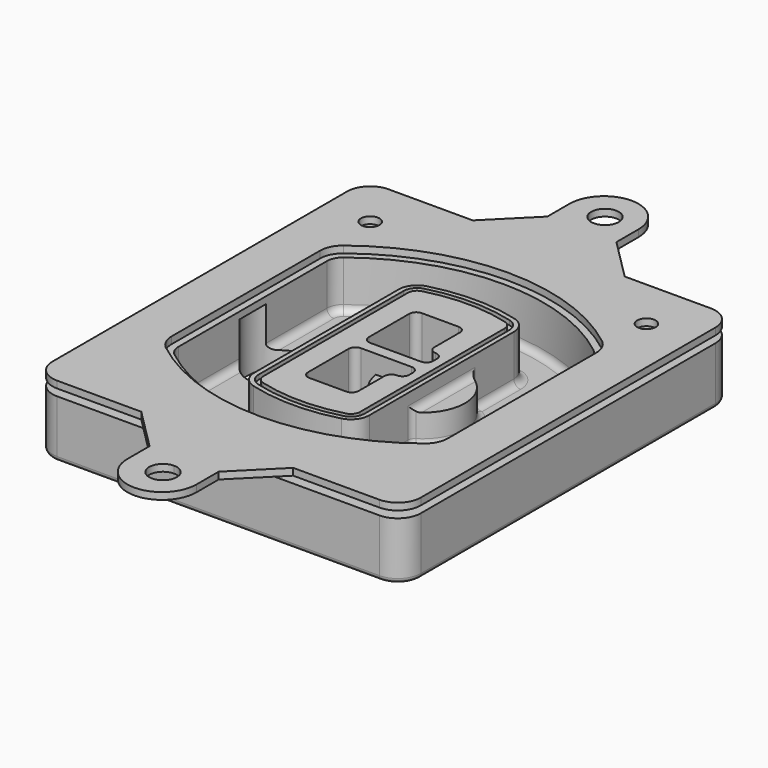
from build123d import *

# Parameters (mm, degrees)
F0_R      = 4
F1_DEPTH  = 25
F2_DEPTH  = 3
F3_DEPTH  = 18
F5_DEPTH  = 21
F6_DEPTH  = 2
F8_DEPTH  = 20
F9_DEPTH  = 16
F10_DEPTH = 25
F7_R      = 6
F7_R_2    = 4
F11_DEPTH = 6
F13_DEPTH = 9
F14_R     = 3
F15_R     = 2
F16_R     = 4
F17_DEPTH = 3


with BuildPart() as f1:
    # F0 (on Top) → F1 (new body)
    with BuildSketch(Plane.XY):
        with BuildLine():
            ThreePointArc((-80, -80), (-77.0710678119, -87.0710678119), (-70, -90))
            Line((-70, -90), (70, -90))
            ThreePointArc((70, -90), (77.0710678119, -87.0710678119), (80, -80))
            Line((80, -80), (80, 80))
            ThreePointArc((80, 80), (77.0710678119, 87.0710678119), (70, 90))
            Line((70, 90), (-70, 90))
            ThreePointArc((-70, 90), (-77.0710678119, 87.0710678119), (-80, 80))
            Line((-80, 80), (-80, -80))
        make_face()
        with Locations((-60, -67.5)):
            Circle(F0_R, mode=Mode.SUBTRACT)
        with Locations((60, -67.5)):
            Circle(F0_R, mode=Mode.SUBTRACT)
        with Locations((-60, 67.5)):
            Circle(F0_R, mode=Mode.SUBTRACT)
        with BuildLine():
            ThreePointArc((-64, 40.2934422872), (-62.5820384798, 46.4328484224), (-58.6153846154, 51.3286200352))
            ThreePointArc((-58.6153846154, 51.3286200352), (0, 71.5), (58.6153846154, 51.3286200352))
            ThreePointArc((58.6153846154, 51.3286200352), (62.5820384798, 46.4328484224), (64, 40.2934422872))
            Line((64, 40.2934422872), (64, -40.2934422872))
            ThreePointArc((64, -40.2934422872), (62.5820384798, -46.4328484224), (58.6153846154, -51.3286200352))
            ThreePointArc((58.6153846154, -51.3286200352), (0, -71.5), (-58.6153846154, -51.3286200352))
            ThreePointArc((-58.6153846154, -51.3286200352), (-62.5820384798, -46.4328484224), (-64, -40.2934422872))
            Line((-64, -40.2934422872), (-64, 40.2934422872))
        make_face(mode=Mode.SUBTRACT)
        with Locations((60, 67.5)):
            Circle(F0_R, mode=Mode.SUBTRACT)
        with BuildLine():
            ThreePointArc((58.6153846154, 51.3286200352), (0, 71.5), (-58.6153846154, 51.3286200352))
            ThreePointArc((-58.6153846154, 51.3286200352), (-62.5820384798, 46.4328484224), (-64, 40.2934422872))
            Line((-64, 40.2934422872), (-64, -40.2934422872))
            ThreePointArc((-64, -40.2934422872), (-62.5820384798, -46.4328484224), (-58.6153846154, -51.3286200352))
            ThreePointArc((-58.6153846154, -51.3286200352), (0, -71.5), (58.6153846154, -51.3286200352))
            ThreePointArc((58.6153846154, -51.3286200352), (62.5820384798, -46.4328484224), (64, -40.2934422872))
            Line((64, -40.2934422872), (64, 40.2934422872))
            ThreePointArc((64, 40.2934422872), (62.5820384798, 46.4328484224), (58.6153846154, 51.3286200352))
        make_face()
        with BuildLine():
            Line((-60, -40.2934422872), (-60, 40.2934422872))
            ThreePointArc((-60, 40.2934422872), (-58.9871703427, 44.6787323838), (-56.1538461538, 48.1757121072))
            ThreePointArc((-56.1538461538, 48.1757121072), (0, 67.5), (56.1538461538, 48.1757121072))
            ThreePointArc((56.1538461538, 48.1757121072), (58.9871703427, 44.6787323838), (60, 40.2934422872))
            Line((60, 40.2934422872), (60, -40.2934422872))
            ThreePointArc((60, -40.2934422872), (58.9871703427, -44.6787323838), (56.1538461538, -48.1757121072))
            ThreePointArc((56.1538461538, -48.1757121072), (0, -67.5), (-56.1538461538, -48.1757121072))
            ThreePointArc((-56.1538461538, -48.1757121072), (-58.9871703427, -44.6787323838), (-60, -40.2934422872))
        make_face(mode=Mode.SUBTRACT)
        with BuildLine():
            ThreePointArc((-56.1538461538, 48.1757121072), (-58.9871703427, 44.6787323838), (-60, 40.2934422872))
            Line((-60, 40.2934422872), (-60, -40.2934422872))
            ThreePointArc((-60, -40.2934422872), (-58.9871703427, -44.6787323838), (-56.1538461538, -48.1757121072))
            ThreePointArc((-56.1538461538, -48.1757121072), (0, -67.5), (56.1538461538, -48.1757121072))
            ThreePointArc((56.1538461538, -48.1757121072), (58.9871703427, -44.6787323838), (60, -40.2934422872))
            Line((60, -40.2934422872), (60, 40.2934422872))
            ThreePointArc((60, 40.2934422872), (58.9871703427, 44.6787323838), (56.1538461538, 48.1757121072))
            ThreePointArc((56.1538461538, 48.1757121072), (0, 67.5), (-56.1538461538, 48.1757121072))
        make_face()
        with BuildLine():
            ThreePointArc((54.3076923077, 45.8110311612), (56.2910192399, 43.3631453548), (57, 40.2934422872))
            Line((57, 40.2934422872), (57, -40.2934422872))
            ThreePointArc((57, -40.2934422872), (56.2910192399, -43.3631453548), (54.3076923077, -45.8110311612))
            ThreePointArc((54.3076923077, -45.8110311612), (0, -64.5), (-54.3076923077, -45.8110311612))
            ThreePointArc((-54.3076923077, -45.8110311612), (-56.2910192399, -43.3631453548), (-57, -40.2934422872))
            Line((-57, -40.2934422872), (-57, 40.2934422872))
            ThreePointArc((-57, 40.2934422872), (-56.2910192399, 43.3631453548), (-54.3076923077, 45.8110311612))
            ThreePointArc((-54.3076923077, 45.8110311612), (0, 64.5), (54.3076923077, 45.8110311612))
        make_face(mode=Mode.SUBTRACT)
        with BuildLine():
            Line((57, -40.2934422872), (57, 40.2934422872))
            ThreePointArc((57, 40.2934422872), (56.2910192399, 43.3631453548), (54.3076923077, 45.8110311612))
            ThreePointArc((54.3076923077, 45.8110311612), (0, 64.5), (-54.3076923077, 45.8110311612))
            ThreePointArc((-54.3076923077, 45.8110311612), (-56.2910192399, 43.3631453548), (-57, 40.2934422872))
            Line((-57, 40.2934422872), (-57, -40.2934422872))
            ThreePointArc((-57, -40.2934422872), (-56.2910192399, -43.3631453548), (-54.3076923077, -45.8110311612))
            ThreePointArc((-54.3076923077, -45.8110311612), (0, -64.5), (54.3076923077, -45.8110311612))
            ThreePointArc((54.3076923077, -45.8110311612), (56.2910192399, -43.3631453548), (57, -40.2934422872))
        make_face()
    extrude(amount=-F1_DEPTH)

    # F0 (on Top) → F2 (join)
    with BuildSketch(Plane.XY):
        with BuildLine():
            ThreePointArc((-56.1538461538, 48.1757121072), (-58.9871703427, 44.6787323838), (-60, 40.2934422872))
            Line((-60, 40.2934422872), (-60, -40.2934422872))
            ThreePointArc((-60, -40.2934422872), (-58.9871703427, -44.6787323838), (-56.1538461538, -48.1757121072))
            ThreePointArc((-56.1538461538, -48.1757121072), (0, -67.5), (56.1538461538, -48.1757121072))
            ThreePointArc((56.1538461538, -48.1757121072), (58.9871703427, -44.6787323838), (60, -40.2934422872))
            Line((60, -40.2934422872), (60, 40.2934422872))
            ThreePointArc((60, 40.2934422872), (58.9871703427, 44.6787323838), (56.1538461538, 48.1757121072))
            ThreePointArc((56.1538461538, 48.1757121072), (0, 67.5), (-56.1538461538, 48.1757121072))
        make_face()
        with BuildLine():
            ThreePointArc((54.3076923077, 45.8110311612), (56.2910192399, 43.3631453548), (57, 40.2934422872))
            Line((57, 40.2934422872), (57, -40.2934422872))
            ThreePointArc((57, -40.2934422872), (56.2910192399, -43.3631453548), (54.3076923077, -45.8110311612))
            ThreePointArc((54.3076923077, -45.8110311612), (0, -64.5), (-54.3076923077, -45.8110311612))
            ThreePointArc((-54.3076923077, -45.8110311612), (-56.2910192399, -43.3631453548), (-57, -40.2934422872))
            Line((-57, -40.2934422872), (-57, 40.2934422872))
            ThreePointArc((-57, 40.2934422872), (-56.2910192399, 43.3631453548), (-54.3076923077, 45.8110311612))
            ThreePointArc((-54.3076923077, 45.8110311612), (0, 64.5), (54.3076923077, 45.8110311612))
        make_face(mode=Mode.SUBTRACT)
    extrude(amount=F2_DEPTH)

    # F0 (on Top) → F3 (cut)
    with BuildSketch(Plane.XY):
        with BuildLine():
            Line((57, -40.2934422872), (57, 40.2934422872))
            ThreePointArc((57, 40.2934422872), (56.2910192399, 43.3631453548), (54.3076923077, 45.8110311612))
            ThreePointArc((54.3076923077, 45.8110311612), (0, 64.5), (-54.3076923077, 45.8110311612))
            ThreePointArc((-54.3076923077, 45.8110311612), (-56.2910192399, 43.3631453548), (-57, 40.2934422872))
            Line((-57, 40.2934422872), (-57, -40.2934422872))
            ThreePointArc((-57, -40.2934422872), (-56.2910192399, -43.3631453548), (-54.3076923077, -45.8110311612))
            ThreePointArc((-54.3076923077, -45.8110311612), (0, -64.5), (54.3076923077, -45.8110311612))
            ThreePointArc((54.3076923077, -45.8110311612), (56.2910192399, -43.3631453548), (57, -40.2934422872))
        make_face()
    extrude(amount=-F3_DEPTH, mode=Mode.SUBTRACT)

    # F4 (on face) → F5 (join, through all)
    with BuildSketch(Plane.XY.offset(3)):
        with BuildLine():
            ThreePointArc((-25, -39.2465276821), (-23.3511545998, -44.1109737193), (-19.0842911877, -46.9702398883))
            ThreePointArc((-19.0842911877, -46.9702398883), (0, -49.5), (19.0842911877, -46.9702398883))
            ThreePointArc((19.0842911877, -46.9702398883), (23.3511545998, -44.1109737193), (25, -39.2465276821))
            Line((25, -39.2465276821), (25, 39.2465276821))
            ThreePointArc((25, 39.2465276821), (23.3511545998, 44.1109737193), (19.0842911877, 46.9702398883))
            ThreePointArc((19.0842911877, 46.9702398883), (0, 49.5), (-19.0842911877, 46.9702398883))
            ThreePointArc((-19.0842911877, 46.9702398883), (-23.3511545998, 44.1109737193), (-25, 39.2465276821))
            Line((-25, 39.2465276821), (-25, -39.2465276821))
        make_face()
        with BuildLine():
            ThreePointArc((18.5632183908, 45.0393118368), (21.7633659499, 42.89486221), (23, 39.2465276821))
            Line((23, 39.2465276821), (23, -39.2465276821))
            ThreePointArc((23, -39.2465276821), (21.7633659499, -42.89486221), (18.5632183908, -45.0393118368))
            ThreePointArc((18.5632183908, -45.0393118368), (0, -47.5), (-18.5632183908, -45.0393118368))
            ThreePointArc((-18.5632183908, -45.0393118368), (-21.7633659499, -42.89486221), (-23, -39.2465276821))
            Line((-23, -39.2465276821), (-23, 39.2465276821))
            ThreePointArc((-23, 39.2465276821), (-21.7633659499, 42.89486221), (-18.5632183908, 45.0393118368))
            ThreePointArc((-18.5632183908, 45.0393118368), (0, 47.5), (18.5632183908, 45.0393118368))
        make_face(mode=Mode.SUBTRACT)
        with BuildLine():
            Line((23, -39.2465276821), (23, 39.2465276821))
            ThreePointArc((23, 39.2465276821), (21.7633659499, 42.89486221), (18.5632183908, 45.0393118368))
            ThreePointArc((18.5632183908, 45.0393118368), (0, 47.5), (-18.5632183908, 45.0393118368))
            ThreePointArc((-18.5632183908, 45.0393118368), (-21.7633659499, 42.89486221), (-23, 39.2465276821))
            Line((-23, 39.2465276821), (-23, -39.2465276821))
            ThreePointArc((-23, -39.2465276821), (-21.7633659499, -42.89486221), (-18.5632183908, -45.0393118368))
            ThreePointArc((-18.5632183908, -45.0393118368), (0, -47.5), (18.5632183908, -45.0393118368))
            ThreePointArc((18.5632183908, -45.0393118368), (21.7633659499, -42.89486221), (23, -39.2465276821))
        make_face()
        with BuildLine():
            ThreePointArc((18.0421455939, 43.1083837852), (20.1755772999, 41.6787507007), (21, 39.2465276821))
            Line((21, 39.2465276821), (21, -39.2465276821))
            ThreePointArc((21, -39.2465276821), (20.1755772999, -41.6787507007), (18.0421455939, -43.1083837852))
            ThreePointArc((18.0421455939, -43.1083837852), (0, -45.5), (-18.0421455939, -43.1083837852))
            ThreePointArc((-18.0421455939, -43.1083837852), (-20.1755772999, -41.6787507007), (-21, -39.2465276821))
            Line((-21, -39.2465276821), (-21, 39.2465276821))
            ThreePointArc((-21, 39.2465276821), (-20.1755772999, 41.6787507007), (-18.0421455939, 43.1083837852))
            ThreePointArc((-18.0421455939, 43.1083837852), (0, 45.5), (18.0421455939, 43.1083837852))
        make_face(mode=Mode.SUBTRACT)
        with BuildLine():
            Line((21, -39.2465276821), (21, 39.2465276821))
            ThreePointArc((21, 39.2465276821), (20.1755772999, 41.6787507007), (18.0421455939, 43.1083837852))
            ThreePointArc((18.0421455939, 43.1083837852), (0, 45.5), (-18.0421455939, 43.1083837852))
            ThreePointArc((-18.0421455939, 43.1083837852), (-20.1755772999, 41.6787507007), (-21, 39.2465276821))
            Line((-21, 39.2465276821), (-21, -39.2465276821))
            ThreePointArc((-21, -39.2465276821), (-20.1755772999, -41.6787507007), (-18.0421455939, -43.1083837852))
            ThreePointArc((-18.0421455939, -43.1083837852), (0, -45.5), (18.0421455939, -43.1083837852))
            ThreePointArc((18.0421455939, -43.1083837852), (20.1755772999, -41.6787507007), (21, -39.2465276821))
        make_face()
        with BuildLine():
            Line((-8, -2.5), (14, -2.5))
            ThreePointArc((14, -2.5), (16.1213203436, -3.3786796564), (17, -5.5))
            Line((17, -5.5), (17, -7.5))
            ThreePointArc((17, -7.5), (16.1213203436, -9.6213203436), (14, -10.5))
            ThreePointArc((14, -10.5), (11.8786796564, -11.3786796564), (11, -13.5))
            Line((11, -13.5), (11, -27.5))
            ThreePointArc((11, -27.5), (10.1213203436, -29.6213203436), (8, -30.5))
            Line((8, -30.5), (-8, -30.5))
            ThreePointArc((-8, -30.5), (-10.1213203436, -29.6213203436), (-11, -27.5))
            Line((-11, -27.5), (-11, -5.5))
            ThreePointArc((-11, -5.5), (-10.1213203436, -3.3786796564), (-8, -2.5))
        make_face(mode=Mode.SUBTRACT)
        with BuildLine():
            ThreePointArc((-8, 2.5), (-10.1213203436, 3.3786796564), (-11, 5.5))
            Line((-11, 5.5), (-11, 27.5))
            ThreePointArc((-11, 27.5), (-10.1213203436, 29.6213203436), (-8, 30.5))
            Line((-8, 30.5), (8, 30.5))
            ThreePointArc((8, 30.5), (10.1213203436, 29.6213203436), (11, 27.5))
            Line((11, 27.5), (11, 13.5))
            ThreePointArc((11, 13.5), (11.8786796564, 11.3786796564), (14, 10.5))
            ThreePointArc((14, 10.5), (16.1213203436, 9.6213203436), (17, 7.5))
            Line((17, 7.5), (17, 5.5))
            ThreePointArc((17, 5.5), (16.1213203436, 3.3786796564), (14, 2.5))
            Line((14, 2.5), (-8, 2.5))
        make_face(mode=Mode.SUBTRACT)
    extrude(amount=-F5_DEPTH)

    # F4 (on face) → F6 (cut)
    with BuildSketch(Plane.XY.offset(3)):
        with BuildLine():
            Line((23, -39.2465276821), (23, 39.2465276821))
            ThreePointArc((23, 39.2465276821), (21.7633659499, 42.89486221), (18.5632183908, 45.0393118368))
            ThreePointArc((18.5632183908, 45.0393118368), (0, 47.5), (-18.5632183908, 45.0393118368))
            ThreePointArc((-18.5632183908, 45.0393118368), (-21.7633659499, 42.89486221), (-23, 39.2465276821))
            Line((-23, 39.2465276821), (-23, -39.2465276821))
            ThreePointArc((-23, -39.2465276821), (-21.7633659499, -42.89486221), (-18.5632183908, -45.0393118368))
            ThreePointArc((-18.5632183908, -45.0393118368), (0, -47.5), (18.5632183908, -45.0393118368))
            ThreePointArc((18.5632183908, -45.0393118368), (21.7633659499, -42.89486221), (23, -39.2465276821))
        make_face()
        with BuildLine():
            ThreePointArc((18.0421455939, 43.1083837852), (20.1755772999, 41.6787507007), (21, 39.2465276821))
            Line((21, 39.2465276821), (21, -39.2465276821))
            ThreePointArc((21, -39.2465276821), (20.1755772999, -41.6787507007), (18.0421455939, -43.1083837852))
            ThreePointArc((18.0421455939, -43.1083837852), (0, -45.5), (-18.0421455939, -43.1083837852))
            ThreePointArc((-18.0421455939, -43.1083837852), (-20.1755772999, -41.6787507007), (-21, -39.2465276821))
            Line((-21, -39.2465276821), (-21, 39.2465276821))
            ThreePointArc((-21, 39.2465276821), (-20.1755772999, 41.6787507007), (-18.0421455939, 43.1083837852))
            ThreePointArc((-18.0421455939, 43.1083837852), (0, 45.5), (18.0421455939, 43.1083837852))
        make_face(mode=Mode.SUBTRACT)
    extrude(amount=-F6_DEPTH, mode=Mode.SUBTRACT)

    # F7 (on face) → F8 (join)
    with BuildSketch(Plane(origin=(0, 0, -25), x_dir=(1, 0, 0), z_dir=(0, 0, -1))):
        with BuildLine():
            ThreePointArc((3.28842436, 0), (16.7567035675, 13.4682792075), (30.224982775, 0))
            Line((30.224982775, 0), (35.224982775, 0))
            ThreePointArc((35.224982775, 0), (16.7567035675, 18.4682792075), (-1.71157564, 0))
            Line((-1.71157564, 0), (3.28842436, 0))
        make_face()
        with BuildLine():
            Line((3.28842436, 0), (30.224982775, 0))
            ThreePointArc((30.224982775, 0), (16.7567035675, 13.4682792075), (3.28842436, 0))
        make_face()
        with BuildLine():
            ThreePointArc((3.28842436, 0), (16.7567035675, -13.4682792075), (30.224982775, 0))
            Line((30.224982775, 0), (3.28842436, 0))
        make_face()
        with BuildLine():
            Line((35.224982775, 0), (30.224982775, 0))
            ThreePointArc((30.224982775, 0), (16.7567035675, -13.4682792075), (3.28842436, 0))
            Line((3.28842436, 0), (-1.71157564, 0))
            ThreePointArc((-1.71157564, 0), (16.7567035675, -18.4682792075), (35.224982775, 0))
        make_face()
    extrude(amount=-F8_DEPTH)

    # F7 (on face) → F9 (cut)
    with BuildSketch(Plane(origin=(0, 0, -25), x_dir=(1, 0, 0), z_dir=(0, 0, -1))):
        with BuildLine():
            Line((3.28842436, 0), (30.224982775, 0))
            ThreePointArc((30.224982775, 0), (16.7567035675, 13.4682792075), (3.28842436, 0))
        make_face()
        with BuildLine():
            ThreePointArc((3.28842436, 0), (16.7567035675, -13.4682792075), (30.224982775, 0))
            Line((30.224982775, 0), (3.28842436, 0))
        make_face()
    extrude(amount=-F9_DEPTH, mode=Mode.SUBTRACT)

    # F7 (on face) → F10 (cut)
    with BuildSketch(Plane(origin=(0, 0, -25), x_dir=(1, 0, 0), z_dir=(0, 0, -1))):
        with BuildLine():
            Line((-59.0318229325, 0), (-32.0952645175, 0))
            ThreePointArc((-32.0952645175, 0), (-45.563543725, 13.4682792075), (-59.0318229325, 0))
        make_face()
        with BuildLine():
            ThreePointArc((-59.0318229325, 0), (-45.563543725, -13.4682792075), (-32.0952645175, 0))
            Line((-32.0952645175, 0), (-59.0318229325, 0))
        make_face()
    extrude(amount=-F10_DEPTH, mode=Mode.SUBTRACT)

    # F7 (on face) → F11 (cut)
    with BuildSketch(Plane(origin=(0, 0, -25), x_dir=(1, 0, 0), z_dir=(0, 0, -1))):
        with Locations((60, -67.5)):
            Circle(F7_R)
        with Locations((60, -67.5)):
            Circle(F7_R_2, mode=Mode.SUBTRACT)
        with Locations((60, -67.5)):
            Circle(F7_R)
        with Locations((60, -67.5)):
            Circle(F7_R_2, mode=Mode.SUBTRACT)
        with Locations((-60, -67.5)):
            Circle(F7_R)
        with Locations((-60, -67.5)):
            Circle(F7_R_2, mode=Mode.SUBTRACT)
        with Locations((-60, -67.5)):
            Circle(F7_R)
        with Locations((-60, -67.5)):
            Circle(F7_R_2, mode=Mode.SUBTRACT)
        with Locations((-60, 67.5)):
            Circle(F7_R)
        with Locations((-60, 67.5)):
            Circle(F7_R_2, mode=Mode.SUBTRACT)
        with Locations((-60, 67.5)):
            Circle(F7_R)
        with Locations((-60, 67.5)):
            Circle(F7_R_2, mode=Mode.SUBTRACT)
        with Locations((60, 67.5)):
            Circle(F7_R)
        with Locations((60, 67.5)):
            Circle(F7_R_2, mode=Mode.SUBTRACT)
        with Locations((60, 67.5)):
            Circle(F7_R)
        with Locations((60, 67.5)):
            Circle(F7_R_2, mode=Mode.SUBTRACT)
    extrude(amount=-F11_DEPTH, mode=Mode.SUBTRACT)

    # F12 (on face) → F13 (cut, through all)
    with BuildSketch(Plane(origin=(0, 0, -9), x_dir=(1, 0, 0), z_dir=(0, 0, -1))):
        with BuildLine():
            Line((11, 13.5), (11, 17.5481537753))
            ThreePointArc((11, 17.5481537753), (2.5696536419, 11.8239143813), (-1.5415842455, 2.5))
            Line((-1.5415842455, 2.5), (3.5224848595, 2.5))
            ThreePointArc((3.5224848595, 2.5), (6.1857188154, 8.3455872281), (11.2536447004, 12.2927168648))
            ThreePointArc((11.2536447004, 12.2927168648), (11.0640958889, 12.8831798879), (11, 13.5))
        make_face()
        with BuildLine():
            ThreePointArc((11.2536447004, -12.2927168648), (6.1857188154, -8.3455872281), (3.5224848595, -2.5))
            Line((3.5224848595, -2.5), (-1.5415842455, -2.5))
            ThreePointArc((-1.5415842455, -2.5), (2.5696536419, -11.8239143813), (11, -17.5481537753))
            Line((11, -17.5481537753), (11, -13.5))
            ThreePointArc((11, -13.5), (11.0640958889, -12.8831798879), (11.2536447004, -12.2927168648))
        make_face()
        with BuildLine():
            ThreePointArc((11.2536447004, 12.2927168648), (6.1857188154, 8.3455872281), (3.5224848595, 2.5))
            Line((3.5224848595, 2.5), (14, 2.5))
            ThreePointArc((14, 2.5), (16.1213203436, 3.3786796564), (17, 5.5))
            Line((17, 5.5), (17, 7.5))
            ThreePointArc((17, 7.5), (16.1213203436, 9.6213203436), (14, 10.5))
            ThreePointArc((14, 10.5), (12.3601599782, 10.9878446101), (11.2536447004, 12.2927168648))
        make_face()
        with BuildLine():
            Line((14, -2.5), (3.5224848595, -2.5))
            ThreePointArc((3.5224848595, -2.5), (6.1857188154, -8.3455872281), (11.2536447004, -12.2927168648))
            ThreePointArc((11.2536447004, -12.2927168648), (12.3601599782, -10.9878446101), (14, -10.5))
            ThreePointArc((14, -10.5), (16.1213203436, -9.6213203436), (17, -7.5))
            Line((17, -7.5), (17, -5.5))
            ThreePointArc((17, -5.5), (16.1213203436, -3.3786796564), (14, -2.5))
        make_face()
    extrude(amount=F13_DEPTH, mode=Mode.SUBTRACT)

    # F14
    f14_edges = [f1.edges().sort_by_distance(p)[0] for p in [
        (-57, -23.703476, -18),
        (-57, 23.703476, -18),
        (25, 0, -5),
        (25, 16.526506, -11.5),
        (25, -16.526506, -11.5),
        (25, -27.886517, -18),
        (35.224983, 0, -18),
    ]]
    fillet(f14_edges, radius=F14_R)

    # F15
    f15_edges = [f1.edges().sort_by_distance(p)[0] for p in [
        (0, -90, -25),
    ]]
    fillet(f15_edges, radius=F15_R)


with BuildPart() as f17:
    # F16 (on face) → F17 (new body)
    with BuildSketch(Plane.XY.offset(3)):
        with BuildLine():
            Line((-33.4419272853, 90), (-70, 90))
            ThreePointArc((-70, 90), (-77.0710678119, 87.0710678119), (-80, 80))
            Line((-80, 80), (-80, -80))
            ThreePointArc((-80, -80), (-77.0710678119, -87.0710678119), (-70, -90))
            Line((-70, -90), (-33.4419272853, -90))
            Line((-33.4419272853, -90), (0, -90))
            Line((0, -90), (32.5580727147, -90))
            Line((32.5580727147, -90), (70, -90))
            ThreePointArc((70, -90), (77.0710678119, -87.0710678119), (80, -80))
            Line((80, -80), (80, 80))
            ThreePointArc((80, 80), (77.0710678119, 87.0710678119), (70, 90))
            Line((70, 90), (32.5580727147, 90))
            Line((32.5580727147, 90), (0, 90))
            Line((0, 90), (-33.4419272853, 90))
        make_face()
        with Locations((-60, 67.5)):
            Circle(F16_R, mode=Mode.SUBTRACT)
        with BuildLine():
            ThreePointArc((56.1538461538, 48.1757121072), (58.9871703427, 44.6787323838), (60, 40.2934422872))
            Line((60, 40.2934422872), (60, -40.2934422872))
            ThreePointArc((60, -40.2934422872), (58.9871703427, -44.6787323838), (56.1538461538, -48.1757121072))
            ThreePointArc((56.1538461538, -48.1757121072), (0, -67.5), (-56.1538461538, -48.1757121072))
            ThreePointArc((-56.1538461538, -48.1757121072), (-58.9871703427, -44.6787323838), (-60, -40.2934422872))
            Line((-60, -40.2934422872), (-60, 40.2934422872))
            ThreePointArc((-60, 40.2934422872), (-58.9871703427, 44.6787323838), (-56.1538461538, 48.1757121072))
            ThreePointArc((-56.1538461538, 48.1757121072), (0, 67.5), (56.1538461538, 48.1757121072))
        make_face(mode=Mode.SUBTRACT)
        with Locations((60, 67.5)):
            Circle(F16_R, mode=Mode.SUBTRACT)
        with BuildLine():
            Line((-15.4419272853, 108), (-33.4419272853, 90))
            Line((-33.4419272853, 90), (0, 90))
            Line((0, 90), (32.5580727147, 90))
            Line((32.5580727147, 90), (14.5580727147, 108))
            Line((14.5580727147, 108), (14.5580727147, 120))
            ThreePointArc((14.5580727147, 120), (-0.4419272853, 135), (-15.4419272853, 120))
            Line((-15.4419272853, 120), (-15.4419272853, 108))
        make_face()
        with BuildLine():
            ThreePointArc((6, 120), (4.2426406871, 115.7573593129), (0, 114))
            ThreePointArc((0, 114), (-4.2426406871, 124.2426406871), (6, 120))
        make_face(mode=Mode.SUBTRACT)
        with BuildLine():
            Line((0, -90), (-33.4419272853, -90))
            Line((-33.4419272853, -90), (-15.4419272853, -108))
            Line((-15.4419272853, -108), (-15.4419272853, -120))
            ThreePointArc((-15.4419272853, -120), (-0.4419272853, -135), (14.5580727147, -120))
            Line((14.5580727147, -120), (14.5580727147, -108))
            Line((14.5580727147, -108), (32.5580727147, -90))
            Line((32.5580727147, -90), (0, -90))
        make_face()
        with BuildLine():
            ThreePointArc((6, -120), (-4.2426406871, -124.2426406871), (0, -114))
            ThreePointArc((0, -114), (4.2426406871, -115.7573593129), (6, -120))
        make_face(mode=Mode.SUBTRACT)
    extrude(amount=F17_DEPTH)


solid = Compound([f1.part, f17.part])
